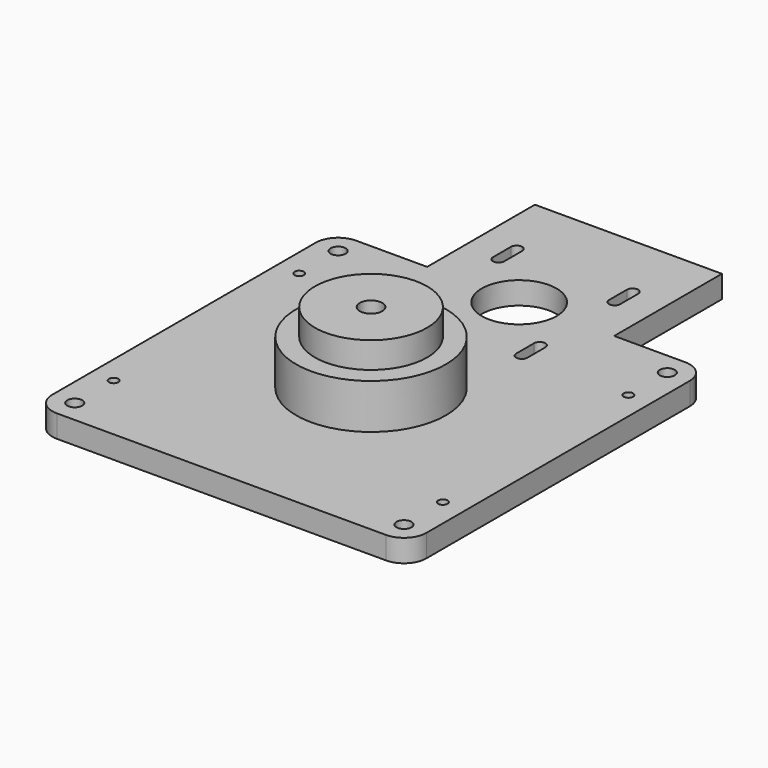
from build123d import *

# Parameters (mm, degrees)
F0_R     = 2
F0_R_2   = 1.25
F0_R_3   = 10
F1_DEPTH = 6
F2_R     = 20
F3_DEPTH = 12
F4_R     = 15
F5_DEPTH = 7
F6_R     = 3
F7_DEPTH = 25.001


with BuildPart() as f1:
    # F0 (on Top) → F1 (new body)
    with BuildSketch(Plane.XY):
        with BuildLine():
            ThreePointArc((0, 6), (1.757359, 1.757359), (6, 0))
            Line((6, 0), (94, 0))
            ThreePointArc((94, 0), (98.242641, 1.757359), (100, 6))
            Line((100, 6), (100, 94))
            ThreePointArc((100, 94), (98.242641, 98.242641), (94, 100))
            Line((94, 100), (75, 100))
            Line((75, 100), (75, 136))
            Line((75, 136), (25, 136))
            Line((25, 136), (25, 100))
            Line((25, 100), (6, 100))
            ThreePointArc((6, 100), (1.757359, 98.242641), (0, 94))
            Line((0, 94), (0, 6))
        make_face()
        with Locations((6, 6)):
            Circle(F0_R, mode=Mode.SUBTRACT)
        with Locations((6, 19)):
            Circle(F0_R_2, mode=Mode.SUBTRACT)
        with Locations((94, 6)):
            Circle(F0_R, mode=Mode.SUBTRACT)
        with Locations((94, 19)):
            Circle(F0_R_2, mode=Mode.SUBTRACT)
        with Locations((6, 81)):
            Circle(F0_R_2, mode=Mode.SUBTRACT)
        with Locations((6, 94)):
            Circle(F0_R, mode=Mode.SUBTRACT)
        with BuildLine():
            Line((33, 81), (33, 87))
            ThreePointArc((33, 87), (34.5, 88.5), (36, 87))
            Line((36, 87), (36, 81))
            ThreePointArc((36, 81), (34.5, 79.5), (33, 81))
        make_face(mode=Mode.SUBTRACT)
        with BuildLine():
            ThreePointArc((36, 112), (34.5, 110.5), (33, 112))
            Line((33, 112), (33, 118))
            ThreePointArc((33, 118), (34.5, 119.5), (36, 118))
            Line((36, 118), (36, 112))
        make_face(mode=Mode.SUBTRACT)
        with BuildLine():
            Line((64, 81), (64, 87))
            ThreePointArc((64, 87), (65.5, 88.5), (67, 87))
            Line((67, 87), (67, 81))
            ThreePointArc((67, 81), (65.5, 79.5), (64, 81))
        make_face(mode=Mode.SUBTRACT)
        with Locations((50, 99.5)):
            Circle(F0_R_3, mode=Mode.SUBTRACT)
        with Locations((94, 81)):
            Circle(F0_R_2, mode=Mode.SUBTRACT)
        with Locations((94, 94)):
            Circle(F0_R, mode=Mode.SUBTRACT)
        with BuildLine():
            ThreePointArc((67, 112), (65.5, 110.5), (64, 112))
            Line((64, 112), (64, 118))
            ThreePointArc((64, 118), (65.5, 119.5), (67, 118))
            Line((67, 118), (67, 112))
        make_face(mode=Mode.SUBTRACT)
    extrude(amount=F1_DEPTH)

    # F2 (on face) → F3 (join)
    with BuildSketch(Plane.XY.offset(6)):
        with Locations((50, 50)):
            Circle(F2_R)
    extrude(amount=F3_DEPTH)

    # F4 (on face) → F5 (join)
    with BuildSketch(Plane.XY.offset(18)):
        with Locations((50, 50)):
            Circle(F4_R)
    extrude(amount=F5_DEPTH)

    # F6 (on face) → F7 (cut, through all)
    with BuildSketch(Plane.XY.offset(25)):
        with Locations((50, 50)):
            Circle(F6_R)
    extrude(amount=-F7_DEPTH, mode=Mode.SUBTRACT)


solid = f1.part
